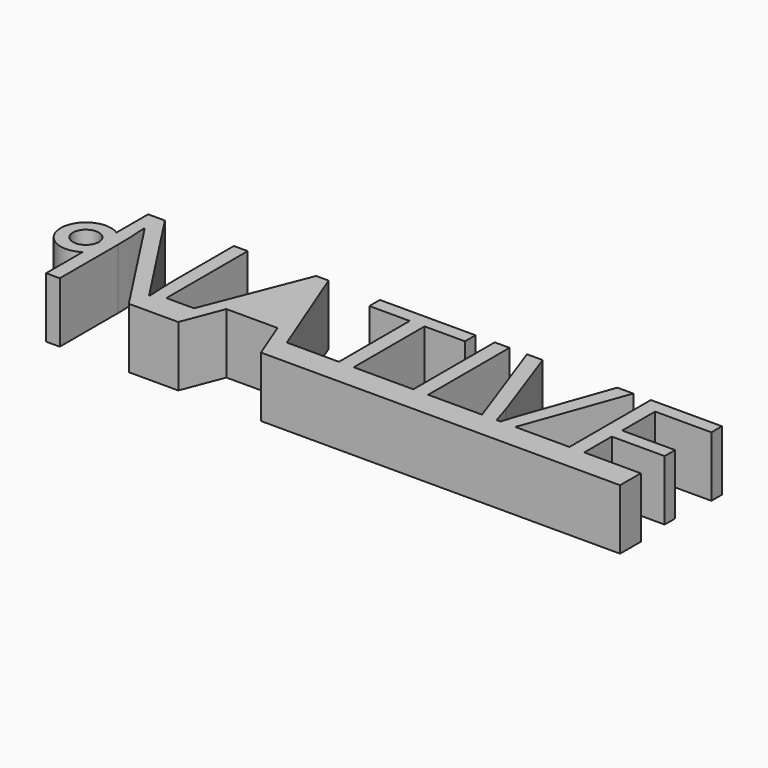
from build123d import *

# Parameters (mm, degrees)
F0_R     = 1.5144006305
F0_W     = 6.9193018195
F0_H     = 3
F0_W_2   = 1.7209130052
F0_H_2   = 11.8076299829
F0_W_3   = 0.5121529102
F0_W_4   = 0.0222647793
F1_DEPTH = 7
F2_D     = 3


with BuildPart() as f1:
    # F0 (on Top) → F1 (new body)
    with BuildSketch(Plane.XY):
        Polygon((3.4971556998, 6.5780634755), (-1.1749863393, -5.2911434323), (-2.3558930525, -8.2911434323), (-2.2171302699, -8.2911434323), (-0.6122938118, -8.2911434323), (1.2090868077, -3.582129126), (7.1431578295, -3.582129126), (8.9872246844, -8.2911434323), (9.7287874669, -8.2911434323), (9.2608770356, -5.2911434323), (9.5946928185, -5.2911434323), (4.9458338793, 6.5780634755), align=None)
        with BuildLine():
            Line((4.8842569545, 2.556118015), (6.6084108505, -2.0329833323))
            Line((6.6084108505, -2.0329833323), (1.8183742747, -2.0329833323))
            Line((1.8183742747, -2.0329833323), (3.5587326246, 2.556118015))
            add(Edge.make_bspline(
                [(4.1971881087, 4.6918650404), (3.9735666447, 3.7195978058), (3.5587326246, 2.556118015)],
                knots=[0, 0, 0, 1, 1, 1], degree=2))
            add(Edge.make_bspline(
                [(4.8842569545, 2.556118015), (4.5504452039, 3.4279176354), (4.1971881087, 4.6918650404)],
                knots=[0, 0, 0, 1, 1, 1], degree=2))
        make_face(mode=Mode.SUBTRACT)
        Polygon((3.4971556998, 6.5780634755), (-1.1749863393, -5.2911434323), (-2.3558930525, -8.2911434323), (-2.2171302699, -8.2911434323), (-0.6122938118, -8.2911434323), (1.2090868077, -3.582129126), (7.1431578295, -3.582129126), (8.9872246844, -8.2911434323), (9.7287874669, -8.2911434323), (9.2608770356, -5.2911434323), (9.5946928185, -5.2911434323), (4.9458338793, 6.5780634755), align=None)
        with BuildLine():
            Line((4.8842569545, 2.556118015), (6.6084108505, -2.0329833323))
            Line((6.6084108505, -2.0329833323), (1.8183742747, -2.0329833323))
            Line((1.8183742747, -2.0329833323), (3.5587326246, 2.556118015))
            add(Edge.make_bspline(
                [(4.1971881087, 4.6918650404), (3.9735666447, 3.7195978058), (3.5587326246, 2.556118015)],
                knots=[0, 0, 0, 1, 1, 1], degree=2))
            add(Edge.make_bspline(
                [(4.8842569545, 2.556118015), (4.5504452039, 3.4279176354), (4.1971881087, 4.6918650404)],
                knots=[0, 0, 0, 1, 1, 1], degree=2))
        make_face(mode=Mode.SUBTRACT)
        with BuildLine():
            Line((-4.3911724636, -8.2911434323), (-4.3911724636, -5.2911434323))
            Line((-4.3911724636, -5.2911434323), (-4.3911724636, 6.5164865506))
            Line((-4.3911724636, 6.5164865506), (-6.0018951822, 6.5164865506))
            Line((-6.0018951822, 6.5164865506), (-6.0018951822, -1.9811290797))
            add(Edge.make_bspline(
                [(-5.9500409297, -4.1039125419), (-6.0213405269, -2.6195845638), (-6.0018951822, -1.9811290797)],
                knots=[0, 0, 0, 1, 1, 1], degree=2))
            add(Edge.make_bspline(
                [(-5.8592959878, -5.8604753458), (-5.8787413325, -5.5882405201), (-5.9500409297, -4.1039125419)],
                knots=[0, 0, 0, 1, 1, 1], degree=2))
            Line((-5.8592959878, -5.8604753458), (-5.9403182574, -5.8604753458))
            Line((-5.9403182574, -5.8604753458), (-14.0133771953, 6.5164865506))
            Line((-14.0133771953, 6.5164865506), (-15.9579116645, 6.5164865506))
            Line((-15.9579116645, 6.5164865506), (-15.9579116645, 1.9267558515))
            ThreePointArc((-15.9579116645, 1.9267558515), (-14.9764941477, 0.8688379816), (-14.6204570666, -0.5295926239))
            ThreePointArc((-14.6204570666, -0.5295926239), (-14.9764941477, -1.9280232295), (-15.9579116645, -2.9859410994))
            Line((-15.9579116645, -2.9859410994), (-15.9579116645, -8.2911434323))
            Line((-15.9579116645, -8.2911434323), (-14.3666342905, -8.2911434323))
            Line((-14.3666342905, -8.2911434323), (-14.3666342905, 0.1254499285))
            add(Edge.make_bspline(
                [(-14.5286788296, 4.1344318259), (-14.3666342905, 1.946830548), (-14.3666342905, 0.1254499285)],
                knots=[0, 0, 0, 1, 1, 1], degree=2))
            Line((-14.5286788296, 4.1344318259), (-14.4476565601, 4.1344318259))
            Line((-14.4476565601, 4.1344318259), (-6.3551522775, -8.2911434323))
            Line((-6.3551522775, -8.2911434323), (-4.4685006142, -8.2911434323))
            Line((-4.4685006142, -8.2911434323), (-4.3911724636, -8.2911434323))
        make_face()
        with BuildLine():
            Line((-4.3911724636, -8.2911434323), (-4.3911724636, -5.2911434323))
            Line((-4.3911724636, -5.2911434323), (-4.3911724636, 6.5164865506))
            Line((-4.3911724636, 6.5164865506), (-6.0018951822, 6.5164865506))
            Line((-6.0018951822, 6.5164865506), (-6.0018951822, -1.9811290797))
            add(Edge.make_bspline(
                [(-5.9500409297, -4.1039125419), (-6.0213405269, -2.6195845638), (-6.0018951822, -1.9811290797)],
                knots=[0, 0, 0, 1, 1, 1], degree=2))
            add(Edge.make_bspline(
                [(-5.8592959878, -5.8604753458), (-5.8787413325, -5.5882405201), (-5.9500409297, -4.1039125419)],
                knots=[0, 0, 0, 1, 1, 1], degree=2))
            Line((-5.8592959878, -5.8604753458), (-5.9403182574, -5.8604753458))
            Line((-5.9403182574, -5.8604753458), (-14.0133771953, 6.5164865506))
            Line((-14.0133771953, 6.5164865506), (-15.9579116645, 6.5164865506))
            Line((-15.9579116645, 6.5164865506), (-15.9579116645, 1.9267558515))
            ThreePointArc((-15.9579116645, 1.9267558515), (-14.9764941477, 0.8688379816), (-14.6204570666, -0.5295926239))
            ThreePointArc((-14.6204570666, -0.5295926239), (-14.9764941477, -1.9280232295), (-15.9579116645, -2.9859410994))
            Line((-15.9579116645, -2.9859410994), (-15.9579116645, -8.2911434323))
            Line((-15.9579116645, -8.2911434323), (-14.3666342905, -8.2911434323))
            Line((-14.3666342905, -8.2911434323), (-14.3666342905, 0.1254499285))
            add(Edge.make_bspline(
                [(-14.5286788296, 4.1344318259), (-14.3666342905, 1.946830548), (-14.3666342905, 0.1254499285)],
                knots=[0, 0, 0, 1, 1, 1], degree=2))
            Line((-14.5286788296, 4.1344318259), (-14.4476565601, 4.1344318259))
            Line((-14.4476565601, 4.1344318259), (-6.3551522775, -8.2911434323))
            Line((-6.3551522775, -8.2911434323), (-4.4685006142, -8.2911434323))
            Line((-4.4685006142, -8.2911434323), (-4.3911724636, -8.2911434323))
        make_face()
        Polygon((42.4072904282, 6.5164865506), (42.4072904282, -5.2911434323), (42.4295552075, -5.2911434323), (42.9417081177, -5.2911434323), (44.1282034335, -5.2911434323), (44.1282034335, -1.3037829063), (50.2664505745, -1.3037829063), (50.2664505745, 0.2161948704), (44.1282034335, 0.2161948704), (44.1282034335, 4.9867861015), (50.6618392499, 4.9867861015), (50.6618392499, 6.5164865506), align=None)
        Polygon((15.6407734599, 4.9867861015), (15.6407734599, -5.2911434323), (17.3616864651, -5.2911434323), (17.3616864651, 4.9867861015), (22.0512554266, 4.9867861015), (22.0512554266, 6.5164865506), (10.9512044983, 6.5164865506), (10.9512044983, 4.9867861015), align=None)
        Polygon((15.6407734599, 4.9867861015), (15.6407734599, -5.2911434323), (17.3616864651, -5.2911434323), (17.3616864651, 4.9867861015), (22.0512554266, 4.9867861015), (22.0512554266, 6.5164865506), (10.9512044983, 6.5164865506), (10.9512044983, 4.9867861015), align=None)
        with BuildLine():
            Line((-15.9579116645, -2.9859410994), (-15.9579116645, 1.9267558515))
            ThreePointArc((-15.9579116645, 1.9267558515), (-20.4692033693, -0.5295926239), (-15.9579116645, -2.9859410994))
        make_face()
        with Locations((-17.544830218, -0.5295926239)):
            Circle(F0_R, mode=Mode.SUBTRACT)
        with BuildLine():
            Line((-15.9579116645, -2.9859410994), (-15.9579116645, 1.9267558515))
            ThreePointArc((-15.9579116645, 1.9267558515), (-20.4692033693, -0.5295926239), (-15.9579116645, -2.9859410994))
        make_face()
        with Locations((-17.544830218, -0.5295926239)):
            Circle(F0_R, mode=Mode.SUBTRACT)
        with BuildLine():
            add(Edge.make_bspline(
                [(34.4250094285, -5.2911434323), (34.7275498025, -4.1458172445), (35.1379724042, -3.0052505668)],
                knots=[0.3003379815, 0.3003379815, 0.3003379815, 1, 1, 1], degree=2))
            Line((34.4250094285, -5.2911434323), (36.1182664446, -5.2911434323))
            Line((36.1182664446, -5.2911434323), (40.3720110171, 6.5164865506))
            Line((40.3720110171, 6.5164865506), (38.5214623806, 6.5164865506))
            Line((38.5214623806, 6.5164865506), (35.1379724042, -3.0052505668))
        make_face()
        with BuildLine():
            add(Edge.make_bspline(
                [(34.4250094285, -5.2911434323), (34.7275498025, -4.1458172445), (35.1379724042, -3.0052505668)],
                knots=[0.3003379815, 0.3003379815, 0.3003379815, 1, 1, 1], degree=2))
            Line((34.4250094285, -5.2911434323), (36.1182664446, -5.2911434323))
            Line((36.1182664446, -5.2911434323), (40.3720110171, 6.5164865506))
            Line((40.3720110171, 6.5164865506), (38.5214623806, 6.5164865506))
            Line((38.5214623806, 6.5164865506), (35.1379724042, -3.0052505668))
        make_face()
        with BuildLine():
            Line((28.0274580286, 6.5164865506), (32.2605282654, -5.2911434323))
            Line((32.2605282654, -5.2911434323), (33.9465209728, -5.2911434323))
            add(Edge.make_bspline(
                [(33.2550148599, -3.0635866009), (33.6581748914, -4.1995623803), (33.9465209728, -5.2911434323)],
                knots=[0, 0, 0, 0.6872812565, 0.6872812565, 0.6872812565], degree=2))
            Line((33.2550148599, -3.0635866009), (29.8520795388, 6.5164865506))
            Line((29.8520795388, 6.5164865506), (28.0274580286, 6.5164865506))
        make_face()
        with BuildLine():
            Line((28.0274580286, 6.5164865506), (32.2605282654, -5.2911434323))
            Line((32.2605282654, -5.2911434323), (33.9465209728, -5.2911434323))
            add(Edge.make_bspline(
                [(33.2550148599, -3.0635866009), (33.6581748914, -4.1995623803), (33.9465209728, -5.2911434323)],
                knots=[0, 0, 0, 0.6872812565, 0.6872812565, 0.6872812565], degree=2))
            Line((33.2550148599, -3.0635866009), (29.8520795388, 6.5164865506))
            Line((29.8520795388, 6.5164865506), (28.0274580286, 6.5164865506))
        make_face()
        with Locations((20.8213373748, -6.7911434323)):
            Rectangle(F0_W, F0_H)
        with Locations((20.8213373748, -6.7911434323)):
            Rectangle(F0_W, F0_H)
        Polygon((36.1182664446, -5.2911434323), (35.03750479, -8.2911434323), (42.4072904282, -8.2911434323), (42.4072904282, -5.2911434323), (41.7667254806, -5.2911434323), align=None)
        Polygon((36.1182664446, -5.2911434323), (35.03750479, -8.2911434323), (42.4072904282, -8.2911434323), (42.4072904282, -5.2911434323), (41.7667254806, -5.2911434323), align=None)
        Polygon((32.2605282654, -5.2911434323), (26.0019012898, -5.2911434323), (26.0019012898, -8.2911434323), (33.3360371295, -8.2911434323), align=None)
        Polygon((32.2605282654, -5.2911434323), (26.0019012898, -5.2911434323), (26.0019012898, -8.2911434323), (33.3360371295, -8.2911434323), align=None)
        with Locations((25.1414447872, 0.6126715592)):
            Rectangle(F0_W_2, F0_H_2)
        with Locations((25.1414447872, 0.6126715592)):
            Rectangle(F0_W_2, F0_H_2)
        Polygon((15.6407734599, -5.2911434323), (9.5946928185, -5.2911434323), (10.7697146145, -8.2911434323), (15.6407734599, -8.2911434323), align=None)
        Polygon((15.6407734599, -5.2911434323), (9.5946928185, -5.2911434323), (10.7697146145, -8.2911434323), (15.6407734599, -8.2911434323), align=None)
        with BuildLine():
            Line((1.8183742747, -2.0329833323), (6.6084108505, -2.0329833323))
            Line((6.6084108505, -2.0329833323), (4.8842569545, 2.556118015))
            add(Edge.make_bspline(
                [(4.8842569545, 2.556118015), (4.5504452039, 3.4279176354), (4.1971881087, 4.6918650404)],
                knots=[0, 0, 0, 1, 1, 1], degree=2))
            add(Edge.make_bspline(
                [(4.1971881087, 4.6918650404), (3.9735666447, 3.7195978058), (3.5587326246, 2.556118015)],
                knots=[0, 0, 0, 1, 1, 1], degree=2))
            Line((3.5587326246, 2.556118015), (1.8183742747, -2.0329833323))
        make_face()
        Polygon((42.9417081177, -5.2911434323), (42.9417081177, -8.2911434323), (50.6618392499, -8.2911434323), (50.6618392499, -6.7517203108), (44.1282034335, -6.7517203108), (44.1282034335, -5.2911434323), align=None)
        Polygon((42.9417081177, -5.2911434323), (42.9417081177, -8.2911434323), (50.6618392499, -8.2911434323), (50.6618392499, -6.7517203108), (44.1282034335, -6.7517203108), (44.1282034335, -5.2911434323), align=None)
        Polygon((50.6618392499, -6.7517203108), (50.6618392499, -8.2911434323), (50.6841652095, -8.2911434323), (50.6841652095, -5.2911434323), (44.1282034335, -5.2911434323), (44.1282034335, -6.7517203108), align=None)
        with BuildLine():
            Line((33.9465209728, -5.2911434323), (32.2605282654, -5.2911434323))
            Line((32.2605282654, -5.2911434323), (33.3360371295, -8.2911434323))
            Line((33.3360371295, -8.2911434323), (35.03750479, -8.2911434323))
            Line((35.03750479, -8.2911434323), (36.1182664446, -5.2911434323))
            Line((36.1182664446, -5.2911434323), (34.4250094285, -5.2911434323))
            add(Edge.make_bspline(
                [(34.1851505143, -6.2753093659), (34.2951404877, -5.7827878924), (34.4250094285, -5.2911434323)],
                knots=[0, 0, 0, 0.3003379815, 0.3003379815, 0.3003379815], degree=2))
            add(Edge.make_bspline(
                [(33.9465209728, -5.2911434323), (34.0777208613, -5.7878219779), (34.1851505143, -6.2753093659)],
                knots=[0.6872812565, 0.6872812565, 0.6872812565, 1, 1, 1], degree=2))
        make_face()
        with BuildLine():
            Line((33.9465209728, -5.2911434323), (32.2605282654, -5.2911434323))
            Line((32.2605282654, -5.2911434323), (33.3360371295, -8.2911434323))
            Line((33.3360371295, -8.2911434323), (35.03750479, -8.2911434323))
            Line((35.03750479, -8.2911434323), (36.1182664446, -5.2911434323))
            Line((36.1182664446, -5.2911434323), (34.4250094285, -5.2911434323))
            add(Edge.make_bspline(
                [(34.1851505143, -6.2753093659), (34.2951404877, -5.7827878924), (34.4250094285, -5.2911434323)],
                knots=[0, 0, 0, 0.3003379815, 0.3003379815, 0.3003379815], degree=2))
            add(Edge.make_bspline(
                [(33.9465209728, -5.2911434323), (34.0777208613, -5.7878219779), (34.1851505143, -6.2753093659)],
                knots=[0.6872812565, 0.6872812565, 0.6872812565, 1, 1, 1], degree=2))
        make_face()
        Polygon((-1.1749863393, -5.2911434323), (-1.686436357, -5.2911434323), (-4.3911724636, -5.2911434323), (-4.3911724636, -8.2911434323), (-2.3558930525, -8.2911434323), align=None)
        Polygon((-1.1749863393, -5.2911434323), (-1.686436357, -5.2911434323), (-4.3911724636, -5.2911434323), (-4.3911724636, -8.2911434323), (-2.3558930525, -8.2911434323), align=None)
        with Locations((-17.544830218, -0.5295926239)):
            Circle(F0_R)
        with Locations((16.5012299625, -6.7911434323)):
            Rectangle(F0_W_2, F0_H)
        Polygon((26.0019012898, -5.2911434323), (24.2809882846, -5.2911434323), (24.2809882846, -8.2911434323), (25.8840639144, -8.2911434323), (26.0019012898, -8.2911434323), align=None)
        Polygon((26.0019012898, -5.2911434323), (24.2809882846, -5.2911434323), (24.2809882846, -8.2911434323), (25.8840639144, -8.2911434323), (26.0019012898, -8.2911434323), align=None)
        with Locations((16.5012299625, -6.7911434323)):
            Rectangle(F0_W_2, F0_H)
        with BuildLine():
            ThreePointArc((-14.6204570666, -0.5295926239), (-14.9764941477, 0.8688379816), (-15.9579116645, 1.9267558515))
            Line((-15.9579116645, 1.9267558515), (-15.9579116645, -2.9859410994))
            ThreePointArc((-15.9579116645, -2.9859410994), (-14.9764941477, -1.9280232295), (-14.6204570666, -0.5295926239))
        make_face()
        with BuildLine():
            ThreePointArc((-14.6204570666, -0.5295926239), (-14.9764941477, 0.8688379816), (-15.9579116645, 1.9267558515))
            Line((-15.9579116645, 1.9267558515), (-15.9579116645, -2.9859410994))
            ThreePointArc((-15.9579116645, -2.9859410994), (-14.9764941477, -1.9280232295), (-14.6204570666, -0.5295926239))
        make_face()
        Polygon((10.7697146145, -8.2911434323), (9.5946928185, -5.2911434323), (9.2608770356, -5.2911434323), (9.7287874669, -8.2911434323), align=None)
        Polygon((10.7697146145, -8.2911434323), (9.5946928185, -5.2911434323), (9.2608770356, -5.2911434323), (9.7287874669, -8.2911434323), align=None)
        with Locations((42.6856316626, -6.7911434323)):
            Rectangle(F0_W_3, F0_H)
        with Locations((42.6856316626, -6.7911434323)):
            Rectangle(F0_W_3, F0_H)
        with Locations((42.6856316626, -6.7911434323)):
            Rectangle(F0_W_3, F0_H)
        with BuildLine():
            Line((34.4250094285, -5.2911434323), (33.9465209728, -5.2911434323))
            add(Edge.make_bspline(
                [(33.9465209728, -5.2911434323), (34.0777208613, -5.7878219779), (34.1851505143, -6.2753093659)],
                knots=[0.6872812565, 0.6872812565, 0.6872812565, 1, 1, 1], degree=2))
            add(Edge.make_bspline(
                [(34.1851505143, -6.2753093659), (34.2951404877, -5.7827878924), (34.4250094285, -5.2911434323)],
                knots=[0, 0, 0, 0.3003379815, 0.3003379815, 0.3003379815], degree=2))
        make_face()
        with BuildLine():
            Line((34.4250094285, -5.2911434323), (33.9465209728, -5.2911434323))
            add(Edge.make_bspline(
                [(33.9465209728, -5.2911434323), (34.0777208613, -5.7878219779), (34.1851505143, -6.2753093659)],
                knots=[0.6872812565, 0.6872812565, 0.6872812565, 1, 1, 1], degree=2))
            add(Edge.make_bspline(
                [(34.1851505143, -6.2753093659), (34.2951404877, -5.7827878924), (34.4250094285, -5.2911434323)],
                knots=[0, 0, 0, 0.3003379815, 0.3003379815, 0.3003379815], degree=2))
        make_face()
        with Locations((42.4184228179, -6.7911434323)):
            Rectangle(F0_W_4, F0_H)
        with Locations((42.4184228179, -6.7911434323)):
            Rectangle(F0_W_4, F0_H)
        with Locations((42.4184228179, -6.7911434323)):
            Rectangle(F0_W_4, F0_H)
    extrude(amount=F1_DEPTH)

    # F2 (through all)
    with Locations(Plane(origin=(0, 0, 0), x_dir=(1, 0, 0), z_dir=(0, 0, -1))):
        with Locations((-17.544830218, 0.5295926239)):
            Hole(F2_D / 2)


solid = f1.part
